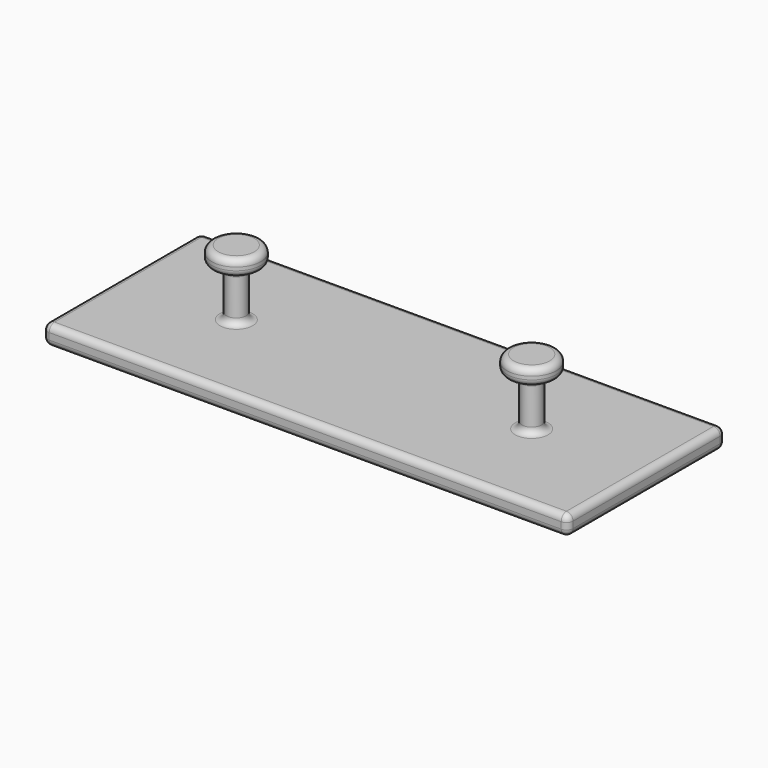
from build123d import *

# Parameters (mm, degrees)
SKETCH_W     = 80
SKETCH_H     = 30
PAD_DEPTH    = 3
SKETCH001_R  = 1.5
PAD001_DEPTH = 7.5
SKETCH002_R  = 3.75
PAD002_DEPTH = 2.5
FILLET_R     = 1


with BuildPart() as part:
    # Sketch → Pad (new body)
    with BuildSketch(Plane.XY):
        Rectangle(SKETCH_W, SKETCH_H)
    extrude(amount=PAD_DEPTH)

    # Sketch001 → Pad001 (join)
    with BuildSketch(Plane.XY.offset(3)):
        with Locations((-22.5, 0)):
            Circle(SKETCH001_R)
        with Locations((22.5, 0)):
            Circle(SKETCH001_R)
    extrude(amount=PAD001_DEPTH)

    # Sketch002 (on Face9 of Pad001) → Pad002 (join)
    with BuildSketch(Plane.XY.offset(10.5)):
        with Locations((-22.5, 0)):
            Circle(SKETCH002_R)
        with Locations((22.5, 0)):
            Circle(SKETCH002_R)
    extrude(amount=PAD002_DEPTH)

    # Fillet
    fillet_edges = [part.edges().sort_by_distance(p)[0] for p in [
        (-40, 15, 1.5),
        (-40, -15, 1.5),
        (-40, 0, 0),
        (-40, 0, 3),
        (40, 15, 1.5),
        (0, 15, 0),
        (0, 15, 3),
        (40, -15, 1.5),
        (0, -15, 0),
        (0, -15, 3),
        (40, 0, 0),
        (40, 0, 3),
        (-24, 0, 3),
        (21, 0, 3),
        (-21, 0, 6.75),
        (-24, 0, 10.5),
        (24, 0, 6.75),
        (21, 0, 10.5),
        (-26.25, 0, 10.5),
        (18.75, 0, 10.5),
        (-18.75, 0, 11.75),
        (-26.25, 0, 13),
        (26.25, 0, 11.75),
        (18.75, 0, 13),
    ]]
    fillet(fillet_edges, radius=FILLET_R)


solid = part.part
